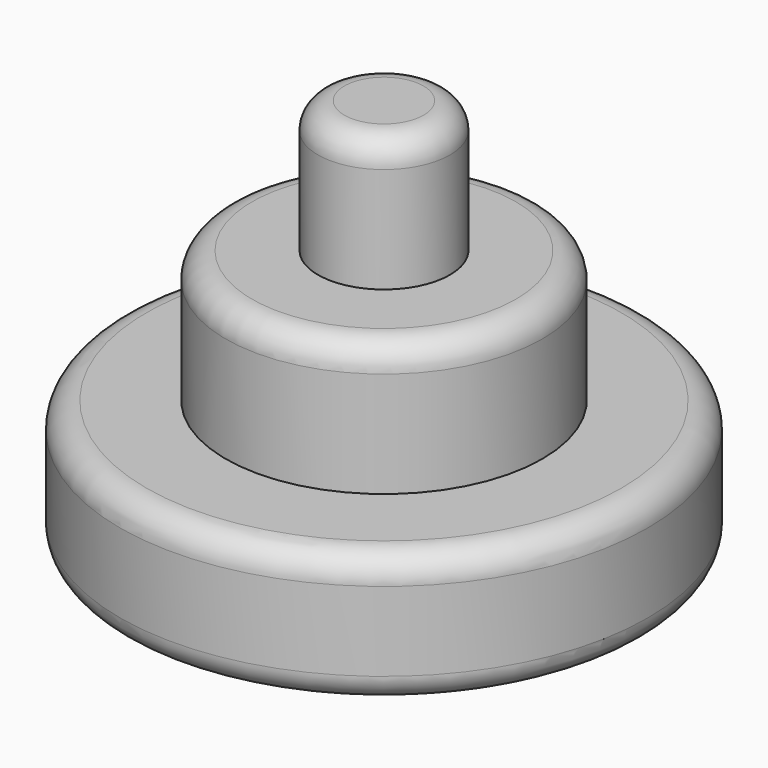
from build123d import *

# Parameters (mm, degrees)
F1_R      = 30
F2_DEPTH  = 25
F0_R      = 50
F2_FACE_R = 30
F3_DEPTH  = 25
F4_R      = 5
F5_R      = 5
F6_R      = 5
F7_R      = 12.5
F8_DEPTH  = 25
F9_R      = 5


with BuildPart() as f2:
    # F1 (on face) → F2 (new body)
    with BuildSketch(Plane.XY):
        Circle(F1_R)
    extrude(amount=F2_DEPTH)

    # F0 (on Top) + F2_face (on face) → F3 (join)
    with BuildSketch(Plane.XY):
        Circle(F0_R)
    with BuildSketch(Plane.XY.offset(25)):
        Circle(F2_FACE_R)
    extrude(amount=F3_DEPTH)

    # F4
    f4_edges = [f2.edges().sort_by_distance(p)[0] for p in [
        (-50, 0, 25),
    ]]
    fillet(f4_edges, radius=F4_R)

    # F5
    f5_edges = [f2.edges().sort_by_distance(p)[0] for p in [
        (-30, 0, 50),
    ]]
    fillet(f5_edges, radius=F5_R)

    # F6
    f6_edges = [f2.edges().sort_by_distance(p)[0] for p in [
        (-50, 0, 0),
    ]]
    fillet(f6_edges, radius=F6_R)

    # F7 (on face) → F8 (join)
    with BuildSketch(Plane.XY.offset(50)):
        Circle(F7_R)
    extrude(amount=F8_DEPTH)

    # F9
    f9_edges = [f2.edges().sort_by_distance(p)[0] for p in [
        (-12.5, 0, 75),
    ]]
    fillet(f9_edges, radius=F9_R)


solid = f2.part
